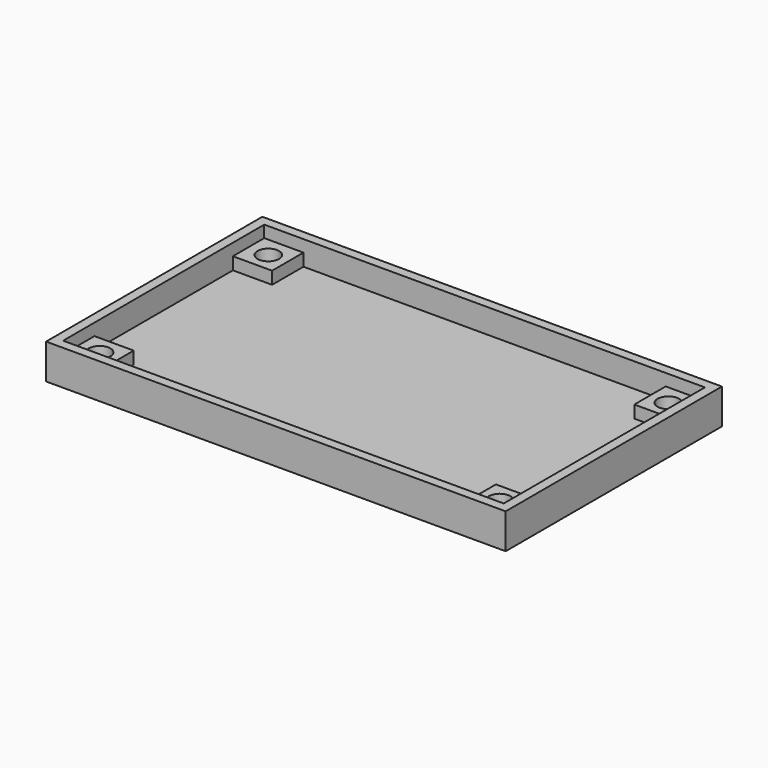
from build123d import *

# Parameters (mm, degrees)
SKETCH007_W                     = 85
SKETCH007_H                     = 50
PAD006_DEPTH                    = 6.5
SKETCH008_W                     = 81.5
SKETCH008_H                     = 46.5
POCKET_DEPTH                    = 4.501
SKETCH010_W                     = 9
SKETCH010_H                     = 9
PAD007_DEPTH                    = 4.3
SKETCH010_MIRRORED002_2_W       = 9
SKETCH010_MIRRORED002_2_H       = 9
PAD007_MIRRORED002_2_DEPTH      = 4.3
CYLINDER001_R                   = 2
CYLINDER001_DEPTH               = 10
CYLINDER001_MIRRORED004_2_R     = 2
CYLINDER001_MIRRORED004_2_DEPTH = 10
SKETCH017_W                     = 4.302639
SKETCH017_H                     = 32
POCKET006_DEPTH                 = 5
CHAMFER_SIZE                    = 1.5


with BuildPart() as part:
    # Sketch007 → Pad006 (new body)
    with BuildSketch(Plane.XY):
        Rectangle(SKETCH007_W, SKETCH007_H)
    extrude(amount=PAD006_DEPTH)

    # Sketch008 → Pocket (cut, through all)
    with BuildSketch(Plane.XY.offset(2)):
        Rectangle(SKETCH008_W, SKETCH008_H)
    extrude(amount=POCKET_DEPTH, mode=Mode.SUBTRACT)

    # Sketch010 → Pad007 (join)
    with BuildSketch(Plane.XY):
        with Locations((-38, -20.5)):
            Rectangle(SKETCH010_W, SKETCH010_H)
    pad007 = extrude(amount=PAD007_DEPTH)

    # Sketch010 Mirrored002 2 → Pad007 Mirrored002 2 (add)
    with BuildSketch(Plane(origin=(0, 0, 0), x_dir=(-1, 0, 0), z_dir=(0, 0, -1))):
        with Locations((-38, -20.5)):
            Rectangle(SKETCH010_MIRRORED002_2_W, SKETCH010_MIRRORED002_2_H)
    pad007_mirrored002_2 = extrude(amount=-PAD007_MIRRORED002_2_DEPTH)

    # Mirrored003: Pad007, Pad007 Mirrored002 2 across Sketch010 H_Axis
    add(pad007.mirror(Plane.ZX))
    add(pad007_mirrored002_2.mirror(Plane.ZX))

    # Cylinder001 → Cylinder001 (cut)
    with BuildSketch(Plane(origin=(-37, -19.5, 0), x_dir=(1, 0, 0), z_dir=(0, 0, 1))):
        Circle(CYLINDER001_R)
    cylinder001 = extrude(amount=CYLINDER001_DEPTH, mode=Mode.SUBTRACT)

    # Cylinder001 Mirrored004 2 → Cylinder001 Mirrored004 2 (cut)
    with BuildSketch(Plane(origin=(37, -19.5, 0), x_dir=(-1, 0, 0), z_dir=(0, 0, -1))):
        Circle(CYLINDER001_MIRRORED004_2_R)
    cylinder001_mirrored004_2 = extrude(amount=-CYLINDER001_MIRRORED004_2_DEPTH, mode=Mode.SUBTRACT)

    # Mirrored005: Cylinder001, Cylinder001 Mirrored004 2 across XZ
    add(cylinder001.mirror(Plane.XZ), mode=Mode.SUBTRACT)
    add(cylinder001_mirrored004_2.mirror(Plane.XZ), mode=Mode.SUBTRACT)

    # Sketch017 → Pocket006 (cut)
    with BuildSketch(Plane.XY.offset(6.5)):
        with Locations((-41.55937, 0)):
            Rectangle(SKETCH017_W, SKETCH017_H)
    extrude(amount=POCKET006_DEPTH, mode=Mode.SUBTRACT)

    # Chamfer
    chamfer_edges = [part.edges().sort_by_distance(p)[0] for p in [
        (-39, -19.5, 0),
        (-39, 19.5, 0),
    ]]
    chamfer(chamfer_edges, length=CHAMFER_SIZE)


solid = part.part
